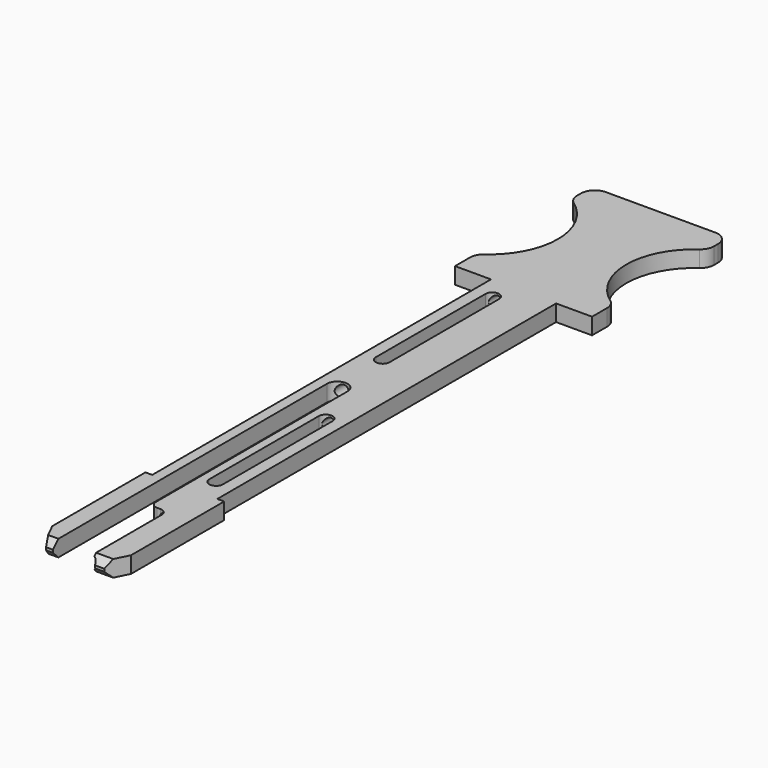
from build123d import *

# Parameters (mm, degrees)
F1_DEPTH  = 2.4
F3_DEPTH  = 2.401
F4_R      = 0.9
F5_DEPTH  = 106.801
F7_DEPTH  = 2.4010001
F9_DEPTH  = 2.4010001
F10_SIZE2 = 1.5
F10_SIZE  = 3
F11_SIZE2 = 3
F11_SIZE  = 1.5
F12_SIZE  = 1
F14_DEPTH = 2.4010001
F15_R     = 2


with BuildPart() as f1:
    # F0 (on Top) → F1 (new body)
    with BuildSketch(Plane.XY):
        Polygon((-10, 86.8), (-10, 61.8), (-4.75, 61.8), (-4.75, 0), (-5.75, 0), (-5.75, -20), (5.75, -20), (5.75, 0), (4.75, 0), (4.75, 61.8), (10, 61.8), (10, 86.8), align=None)
    extrude(amount=F1_DEPTH)

    # F2 (on Top) → F3 (cut, through all)
    with BuildSketch(Plane.XY):
        with BuildLine():
            Line((-3.25, 30), (-3.25, -20))
            Line((-3.25, -20), (2.25, -20))
            Line((2.25, -20), (2.25, -7))
            ThreePointArc((2.25, -7), (1.9571067812, -6.2928932188), (1.25, -6))
            Line((1.25, -6), (0.75, -6))
            ThreePointArc((0.75, -6), (0.0428932188, -5.7071067812), (-0.25, -5))
            Line((-0.25, -5), (-0.25, 30))
            ThreePointArc((-0.25, 30), (-1.75, 31.5), (-3.25, 30))
        make_face()
    extrude(amount=F3_DEPTH, mode=Mode.SUBTRACT)

    # F4 (on face) → F5 (cut, through all)
    with BuildSketch(Plane(origin=(0, 86.8, 0), x_dir=(-1, 0, 0), z_dir=(0, 1, 0))):
        with Locations((-2, 1.2)):
            Circle(F4_R)
        with Locations((2, 1.2)):
            Circle(F4_R)
    extrude(amount=-F5_DEPTH, mode=Mode.SUBTRACT)

    # F6 (on face) → F7 (cut, through all)
    with BuildSketch(Plane.XY.offset(2.4)):
        with BuildLine():
            Line((1, 23.2), (1, 3.2))
            ThreePointArc((1, 3.2), (2, 2.2), (3, 3.2))
            Line((3, 3.2), (3, 23.2))
            ThreePointArc((3, 23.2), (2, 24.2), (1, 23.2))
        make_face()
    extrude(amount=-F7_DEPTH, mode=Mode.SUBTRACT)

    # F8 (on face) → F9 (cut, through all)
    with BuildSketch(Plane.XY.offset(2.4)):
        with BuildLine():
            ThreePointArc((-1, 58.6), (-2, 59.6), (-3, 58.6))
            Line((-3, 58.6), (-3, 38.6))
            ThreePointArc((-3, 38.6), (-2, 37.6), (-1, 38.6))
            Line((-1, 38.6), (-1, 58.6))
        make_face()
    extrude(amount=-F9_DEPTH, mode=Mode.SUBTRACT)

    # F10
    f10_edges = [f1.edges().sort_by_distance(p)[0] for p in [
        (5.75, -20, 1.2),
    ]]
    f10_side = f1.faces().sort_by_distance((5.75, -10, 1.2))[0]
    chamfer(f10_edges, length=F10_SIZE, length2=F10_SIZE2, reference=f10_side)

    # F11
    f11_edges = [f1.edges().sort_by_distance(p)[0] for p in [
        (-5.75, -20, 1.2),
    ]]
    f11_side = f1.faces().sort_by_distance((-4.5, -20, 1.2))[0]
    chamfer(f11_edges, length=F11_SIZE, length2=F11_SIZE2, reference=f11_side)

    # F12
    f12_edges = [f1.edges().sort_by_distance(p)[0] for p in [
        (-3.75, -20, 2.4),
        (-3.75, -20, 0),
        (3.25, -20, 2.4),
        (3.25, -20, 0),
    ]]
    chamfer(f12_edges, length=F12_SIZE)

    # F13 (on face) → F14 (cut, through all)
    with BuildSketch(Plane.XY.offset(2.4)):
        with BuildLine():
            Line((10, 65.6397459622), (10, 82.9602540378))
            ThreePointArc((10, 82.9602540378), (5, 74.3), (10, 65.6397459622))
        make_face()
        with BuildLine():
            Line((-10, 82.9602540378), (-10, 65.6397459622))
            ThreePointArc((-10, 65.6397459622), (-5, 74.3), (-10, 82.9602540378))
        make_face()
    extrude(amount=-F14_DEPTH, mode=Mode.SUBTRACT)

    # F15
    f15_edges = [f1.edges().sort_by_distance(p)[0] for p in [
        (10, 82.960254, 1.2),
        (10, 65.639746, 1.2),
        (10, 86.8, 1.2),
        (-10, 65.639746, 1.2),
        (-10, 82.960254, 1.2),
        (-10, 86.8, 1.2),
    ]]
    fillet(f15_edges, radius=F15_R)


solid = f1.part
